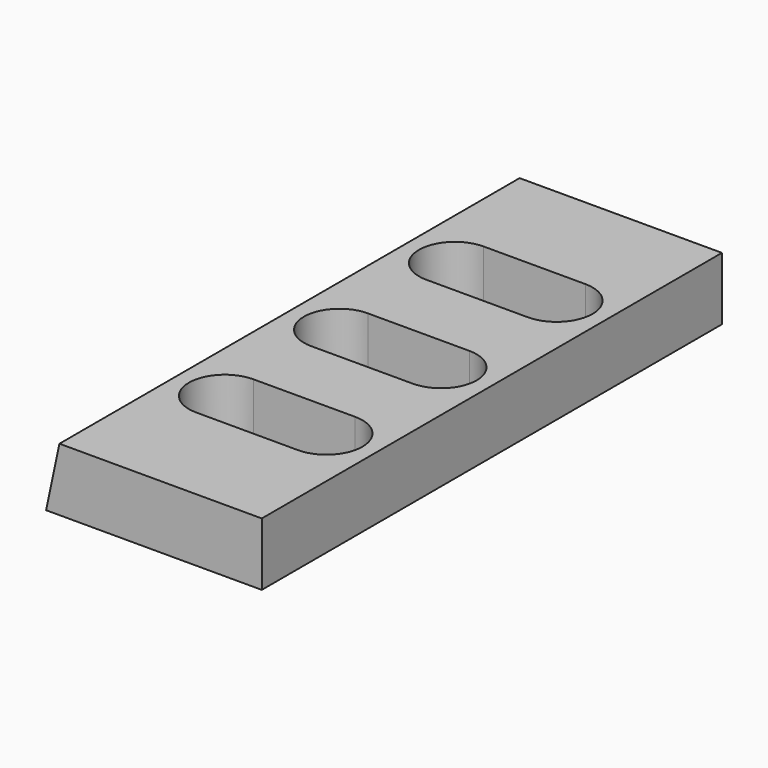
from build123d import *

# Parameters (mm, degrees)
F1_DEPTH = 203.2
F2_DEPTH = 203.2
F4_DEPTH = 25.4


with BuildPart() as f1:
    # F0 (on Front) → F1 (new body)
    with BuildSketch(Plane.XZ):
        Polygon((4.7240695831, 22.225), (0, 0), (76.2, 0), (76.2, 22.225), align=None)
    extrude(amount=F1_DEPTH)

    # F0 (on Front) → F2 (join)
    with BuildSketch(Plane.XZ):
        Polygon((4.7240695831, 22.225), (0, 0), (76.2, 0), (76.2, 22.225), align=None)
    extrude(amount=F2_DEPTH)

    # F3 (on face) → F4 (cut)
    with BuildSketch(Plane.XY.offset(22.225)):
        with BuildLine():
            ThreePointArc((22.500173924, -63.4888712894), (9.8102666247, -50.7932735364), (22.5036881615, -38.1011894183))
            ThreePointArc((22.5036881615, -38.1011894183), (9.8080901072, -50.7932732351), (22.500173924, -63.4888712894))
        make_face()
        with BuildLine():
            Line((58.4195802106, -38.1000022454), (22.5036881615, -38.1011894183))
            ThreePointArc((22.5036881615, -38.1011894183), (9.8102666247, -50.7932735364), (22.500173924, -63.4888712894))
            Line((22.500173924, -63.4888712894), (58.416064268, -63.5000016286))
            ThreePointArc((58.416064268, -63.5000016286), (58.4178222393, -63.5000020517), (58.4195802106, -63.5000022315))
            ThreePointArc((58.4195802106, -63.5000022315), (71.1199999996, -50.8000022384), (58.4195802106, -38.1000022454))
        make_face()
        with BuildLine():
            Line((58.4195802106, -89.2484490539), (22.501472381, -89.2484490539))
            ThreePointArc((22.501472381, -89.2484490539), (9.9718902315, -101.7780312034), (22.501472381, -114.3076133529))
            Line((22.501472381, -114.3076133529), (58.4195802106, -114.3076133529))
            ThreePointArc((58.4195802106, -114.3076133529), (70.9491623601, -101.7780312034), (58.4195802106, -89.2484490539))
        make_face()
        with BuildLine():
            Line((58.4111609952, -139.7000054607), (22.4953197832, -139.7250023393))
            ThreePointArc((22.4953197832, -139.7250023393), (9.8321170384, -152.3959699434), (22.4932164886, -165.0690392045))
            Line((22.4932164886, -165.0690392045), (58.4090530569, -165.0999973742))
            ThreePointArc((58.4090530569, -165.0999973742), (58.4143166333, -165.1000008204), (58.4195802107, -165.1000020852))
            ThreePointArc((58.4195802107, -165.1000020852), (71.1199998532, -152.4000022384), (58.4195802107, -139.7000023917))
            ThreePointArc((58.4195802107, -139.7000023917), (58.4153706027, -139.7000032285), (58.4111609952, -139.7000054607))
        make_face()
    extrude(amount=-F4_DEPTH, mode=Mode.SUBTRACT)


solid = f1.part
